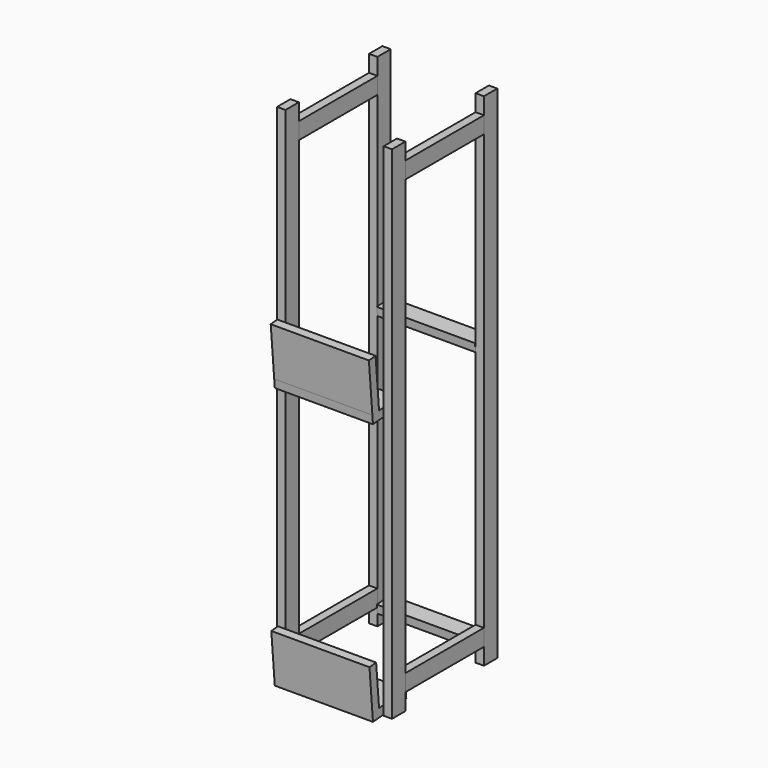
from build123d import *

# Parameters (mm, degrees)
F0_W     = 25.4
F0_H     = 50.8
F1_DEPTH = 1524
F2_W     = 25.4
F2_H     = 50.8
F3_DEPTH = 298.45
F6_DEPTH = 298.45


with BuildPart() as f1:
    # F0 (on Top) → F1 (new body)
    with BuildSketch(Plane.XY):
        with Locations((-161.925, 174.625)):
            Rectangle(F0_W, F0_H)
        with Locations((161.925, 174.625)):
            Rectangle(F0_W, F0_H)
        with Locations((161.925, -174.625)):
            Rectangle(F0_W, F0_H)
        with Locations((-161.925, -174.625)):
            Rectangle(F0_W, F0_H)
    extrude(amount=F1_DEPTH)


with BuildPart() as f3:
    # F2 (on face) → F3 (new body, through all)
    with BuildSketch(Plane.XZ.offset(-149.225)):
        with Locations((161.925, 1447.8)):
            Rectangle(F2_W, F2_H)
        with Locations((-161.925, 1447.8)):
            Rectangle(F2_W, F2_H)
        with Locations((161.925, 76.2)):
            Rectangle(F2_W, F2_H)
        with Locations((-161.925, 76.2)):
            Rectangle(F2_W, F2_H)
    extrude(amount=F3_DEPTH)


with BuildPart() as f6:
    # F5 (on face) → F6 (new body, through all)
    with BuildSketch(Plane(origin=(149.225, 0, 0), x_dir=(0, -1, 0), z_dir=(-1, 0, 0))):
        Polygon((-147.204553, 855.823441), (-197.811244, 860.250952), (-200.025, 834.947607), (-149.418309, 830.520095), align=None)
        Polygon((217.480198, 823.917659), (141.570162, 830.558927), (139.356406, 805.255581), (240.569787, 796.400558), (242.783543, 821.703903), align=None)
        Polygon((230.762733, 975.737731), (217.480198, 823.917659), (242.783543, 821.703903), (256.066078, 973.523975), align=None)
        Polygon((217.48007, 27.517101), (116.266689, 36.372125), (114.052933, 11.068779), (215.266314, 2.213756), align=None)
        Polygon((228.548849, 154.033828), (217.48007, 27.517101), (215.266314, 2.213756), (240.569659, 0), (253.852195, 151.820072), align=None)
        Polygon((-197.811244, 63.850383), (-200.025, 38.547038), (-149.418309, 34.119526), (-147.204553, 59.422872), align=None)
    extrude(amount=F6_DEPTH)


solid = Compound([f1.part, f3.part, f6.part])
